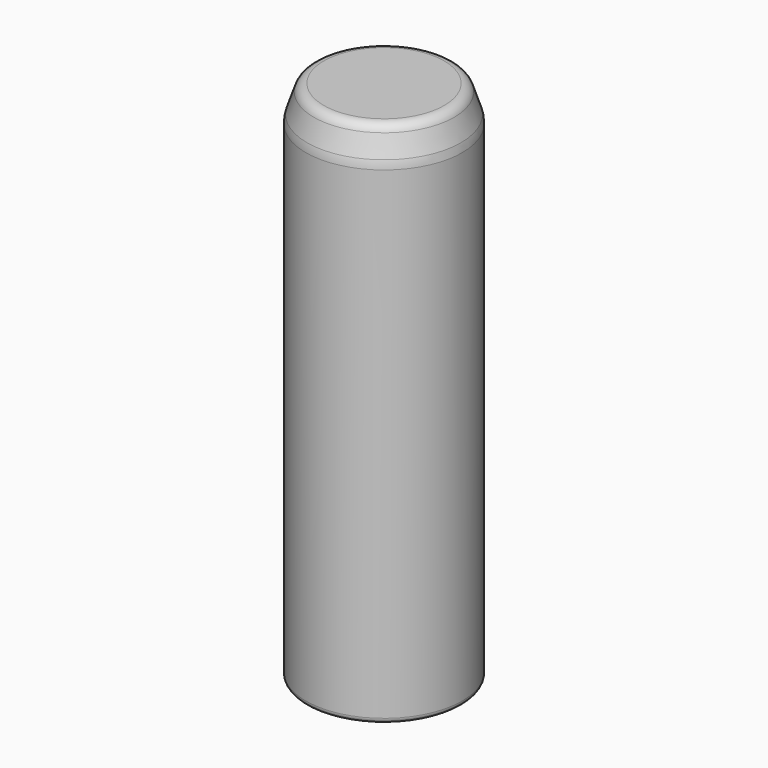
from build123d import *

# Parameters (mm, degrees)
F0_R     = 14.95
F1_DEPTH = 100
F2_SIZE2 = 6
F2_SIZE  = 2
F3_R     = 1
F4_R     = 2
F5_R     = 5


with BuildPart() as f1:
    # F0 (on Top) → F1 (new body)
    with BuildSketch(Plane.XY):
        with Locations((0, 1.4814995229)):
            Circle(F0_R)
    extrude(amount=F1_DEPTH)

    # F2
    f2_edges = [f1.edges().sort_by_distance(p)[0] for p in [
        (-14.95, 1.4815, 100),
    ]]
    f2_side = f1.faces().sort_by_distance((0, 1.4815, 100))[0]
    chamfer(f2_edges, length=F2_SIZE, length2=F2_SIZE2, reference=f2_side)

    # F3
    f3_edges = [f1.edges().sort_by_distance(p)[0] for p in [
        (-14.95, 1.4815, 0),
    ]]
    fillet(f3_edges, radius=F3_R)

    # F4
    f4_edges = [f1.edges().sort_by_distance(p)[0] for p in [
        (-12.95, 1.4815, 100),
    ]]
    fillet(f4_edges, radius=F4_R)

    # F5
    f5_edges = [f1.edges().sort_by_distance(p)[0] for p in [
        (-14.95, 1.4815, 94),
    ]]
    fillet(f5_edges, radius=F5_R)


solid = f1.part
